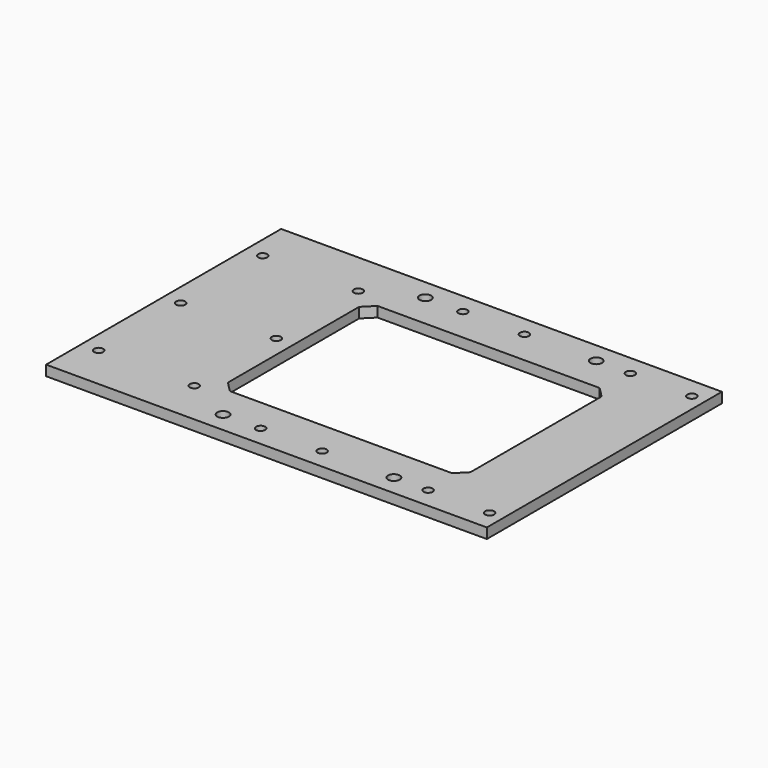
from build123d import *

# Parameters (mm, degrees)
F0_W     = 645
F0_H     = 430
F1_DEPTH = 15
F3_D     = 13.2
F4_R     = 8.5
F5_DEPTH = 15


with BuildPart() as f1:
    # F0 (on Top) → F1 (new body)
    with BuildSketch(Plane.XY):
        Rectangle(F0_W, F0_H)
        Polygon((-132.5, 120), (-117.5, 135), (207.5, 135), (222.5, 120), (222.5, -120), (207.5, -135), (-117.5, -135), (-132.5, -120), align=None, mode=Mode.SUBTRACT)
    extrude(amount=F1_DEPTH)

    # F3 (through all)
    with Locations(Plane(origin=(0, 0, 0), x_dir=(1, 0, 0), z_dir=(0, 0, -1))):
        with Locations((-297.5, -150), (-297.5, 0), (-297.5, 150), (-157.5, -150), (-157.5, 0), (-157.5, 150), (-32.5, 185), (57.5, 185), (212.5, 185), (302.5, 185), (302.5, -185), (212.5, -185), (57.5, -185), (-32.5, -185)):
            Hole(F3_D / 2)

    # F4 (on Top) → F5 (cut, through all)
    with BuildSketch(Plane.XY):
        with Locations((-87.5, 185)):
            Circle(F4_R)
        with Locations((162.5, 185)):
            Circle(F4_R)
        with Locations((162.5, -185)):
            Circle(F4_R)
        with Locations((-87.5, -185)):
            Circle(F4_R)
    extrude(amount=F5_DEPTH, mode=Mode.SUBTRACT)


solid = f1.part
